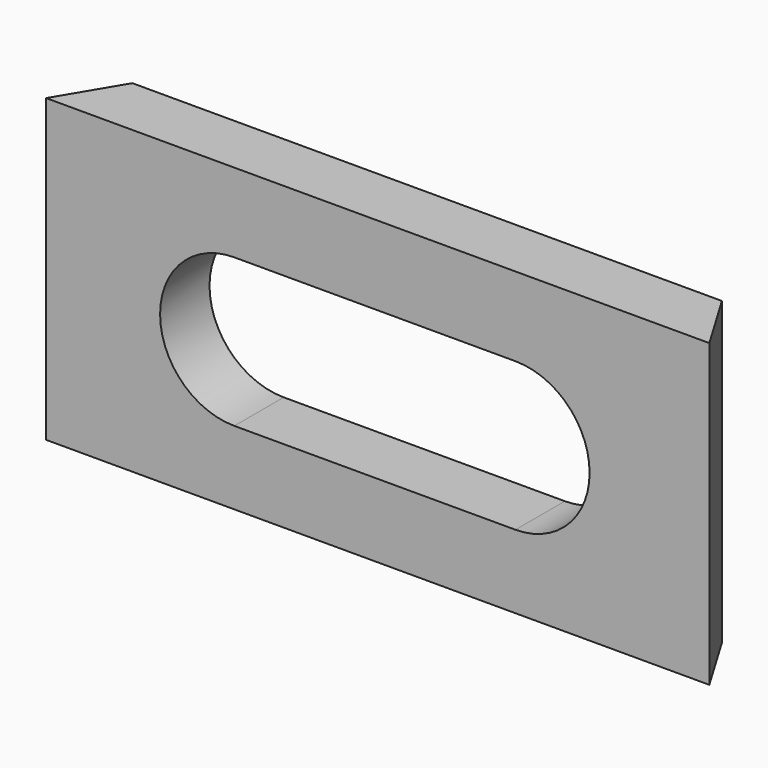
from build123d import *

# Parameters (mm, degrees)
F1_DEPTH = 77.7748
F3_DEPTH = 25.4


with BuildPart() as f1:
    # F0 (on Top) → F1 (new body)
    with BuildSketch(Plane.XY):
        Polygon((73.594126, 39.960825), (-78.805874, 39.960825), (-88.330874, 23.984069), (83.119126, 23.984069), align=None)
    extrude(amount=F1_DEPTH)

    # F2 (on face) → F3 (cut)
    with BuildSketch(Plane(origin=(0, 39.960825, 0), x_dir=(-1, 0, 0), z_dir=(0, 1, 0))):
        with BuildLine():
            Line((39.681347, 57.3532), (-32.988053, 57.3532))
            ThreePointArc((-32.988053, 57.3532), (-52.165053, 38.1762), (-32.988053, 18.9992))
            Line((-32.988053, 18.9992), (39.681347, 18.9992))
            ThreePointArc((39.681347, 18.9992), (58.858347, 38.1762), (39.681347, 57.3532))
        make_face()
    extrude(amount=-F3_DEPTH, mode=Mode.SUBTRACT)


solid = f1.part
